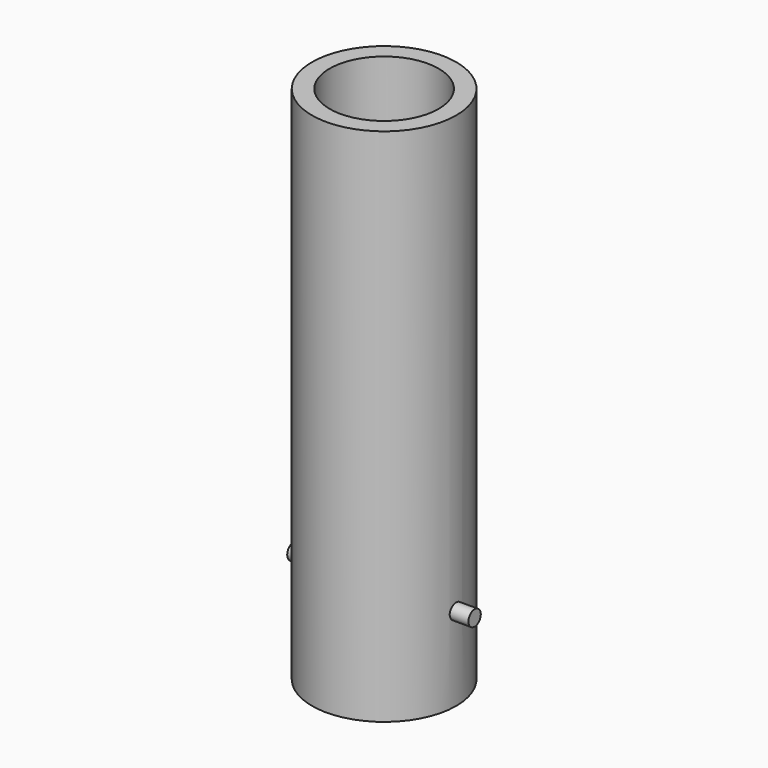
from build123d import *

# Parameters (mm, degrees)
F0_R      = 14.2748
F0_R_2    = 12.827
F1_DEPTH  = 266.7
F3_DEPTH  = 12.7
F4_R      = 14.2748
F4_R_2    = 12.827
F5_DEPTH  = 76.2
F7_R      = 1.524
F8_DEPTH  = 5.08
F10_R     = 1.5875
F11_DEPTH = 5.08
F12_R     = 14.2875
F13_DEPTH = 256.54
F14_R     = 14.2748
F14_R_2   = 12.827
F15_DEPTH = 3.81
F16_R     = 14.2748
F16_R_2   = 10.795
F17_DEPTH = 102.87


with BuildPart() as f1:
    # F0 (on Top) → F1 (new body)
    with BuildSketch(Plane.XY):
        Circle(F0_R)
        Circle(F0_R_2, mode=Mode.SUBTRACT)
    extrude(amount=F1_DEPTH)

    # F2 (on face) → F3 (join)
    with BuildSketch(Plane.XY.offset(266.7)):
        with BuildLine():
            Line((-3.175, 12.4278438999), (-3.175, 13.9172299701))
            ThreePointArc((-3.175, 13.9172299701), (0, -14.2748), (3.175, 13.9172299701))
            Line((3.175, 13.9172299701), (3.175, 12.4278438999))
            ThreePointArc((3.175, 12.4278438999), (0, -12.827), (-3.175, 12.4278438999))
        make_face()
    extrude(amount=F3_DEPTH)

    # F4 (on face) → F5 (join)
    with BuildSketch(Plane.XY.offset(279.4)):
        Circle(F4_R)
        Circle(F4_R_2, mode=Mode.SUBTRACT)
    extrude(amount=F5_DEPTH)

    # F7 (on offset) → F8 (join)
    with BuildSketch(Plane.YZ.offset(12.827)):
        with Locations((0, 12.7)):
            Circle(F7_R)
    extrude(amount=F8_DEPTH)

    # F10 (on offset) → F11 (join)
    with BuildSketch(Plane.YZ.offset(-12.827)):
        with Locations((0, 12.7)):
            Circle(F10_R)
    extrude(amount=-F11_DEPTH)

    # F12 (on face) → F13 (cut)
    with BuildSketch(Plane.XY.offset(355.6)):
        Circle(F12_R)
    extrude(amount=-F13_DEPTH, mode=Mode.SUBTRACT)

    # F14 (on face) → F15 (join)
    with BuildSketch(Plane(origin=(0, 0, 0), x_dir=(1, 0, 0), z_dir=(0, 0, -1))):
        Circle(F14_R)
        Circle(F14_R_2, mode=Mode.SUBTRACT)
    extrude(amount=F15_DEPTH)

    # F16 (on face) → F17 (join)
    with BuildSketch(Plane.XY.offset(99.06)):
        Circle(F16_R)
        Circle(F16_R_2, mode=Mode.SUBTRACT)
    extrude(amount=-F17_DEPTH)


solid = f1.part
